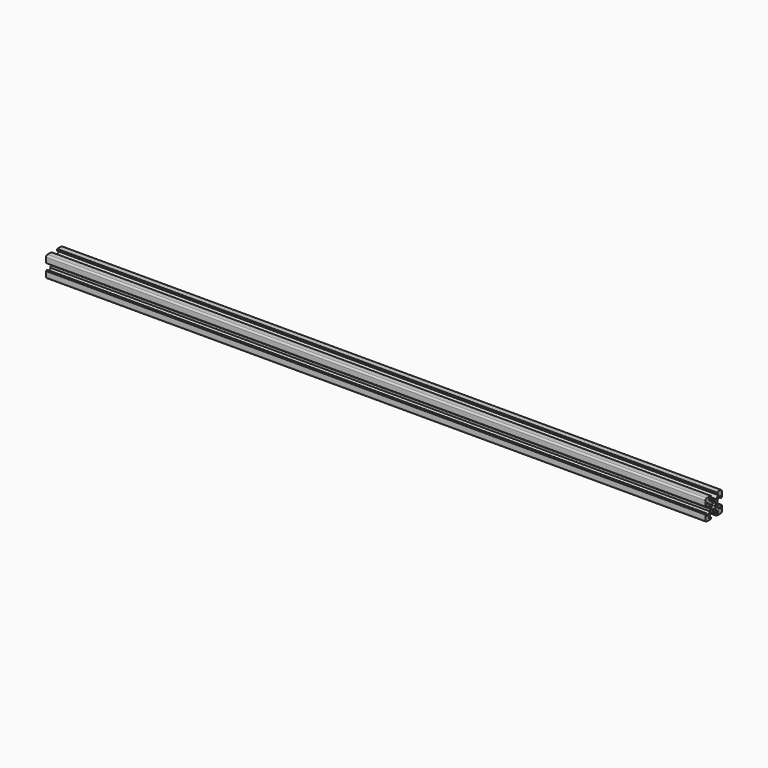
from build123d import *

# Parameters (mm, degrees)
PAD_DEPTH = 640


with BuildPart() as part:
    # Sketch → Pad (new body)
    with BuildSketch(Plane.YZ):
        with BuildLine():
            Line((0, 4.1), (0.65, 4.5))
            Line((0.65, 4.5), (3, 4.5))
            Line((3, 4.5), (5.5, 7))
            Line((5.5, 7), (5.5, 8.5))
            Line((5.5, 8.5), (3, 8.5))
            Line((3, 8.5), (3, 9.5))
            Line((3, 9.5), (3.5, 9.5))
            Line((3.5, 9.5), (3.5, 10))
            Line((3.5, 10), (8.5, 10))
            ThreePointArc((10, 8.5), (9.56066, 9.56066), (8.5, 10))
            Line((10, 8.5), (10, 3.5))
            Line((10, 3.5), (9.5, 3.5))
            Line((9.5, 3.5), (9.5, 3))
            Line((9.5, 3), (8.5, 3))
            Line((8.5, 3), (8.5, 5.5))
            Line((8.5, 5.5), (7, 5.5))
            Line((7, 5.5), (4.5, 3))
            Line((4.5, 3), (4.5, 0.65))
            Line((4.5, 0.65), (4.1, 0))
            Line((4.5, -0.65), (4.1, 0))
            Line((4.5, -3), (4.5, -0.65))
            Line((7, -5.5), (4.5, -3))
            Line((8.5, -5.5), (7, -5.5))
            Line((8.5, -3), (8.5, -5.5))
            Line((9.5, -3), (8.5, -3))
            Line((9.5, -3.5), (9.5, -3))
            Line((10, -3.5), (9.5, -3.5))
            Line((10, -8.5), (10, -3.5))
            ThreePointArc((8.5, -10), (9.56066, -9.56066), (10, -8.5))
            Line((3.5, -10), (8.5, -10))
            Line((3.5, -9.5), (3.5, -10))
            Line((3, -9.5), (3.5, -9.5))
            Line((3, -8.5), (3, -9.5))
            Line((5.5, -8.5), (3, -8.5))
            Line((5.5, -7), (5.5, -8.5))
            Line((3, -4.5), (5.5, -7))
            Line((0.65, -4.5), (3, -4.5))
            Line((0, -4.1), (0.65, -4.5))
            Line((0, -4.1), (-0.65, -4.5))
            Line((-0.65, -4.5), (-3, -4.5))
            Line((-3, -4.5), (-5.5, -7))
            Line((-5.5, -7), (-5.5, -8.5))
            Line((-5.5, -8.5), (-3, -8.5))
            Line((-3, -8.5), (-3, -9.5))
            Line((-3, -9.5), (-3.5, -9.5))
            Line((-3.5, -9.5), (-3.5, -10))
            Line((-3.5, -10), (-8.5, -10))
            ThreePointArc((-10, -8.5), (-9.56066, -9.56066), (-8.5, -10))
            Line((-10, -8.5), (-10, -3.5))
            Line((-10, -3.5), (-9.5, -3.5))
            Line((-9.5, -3.5), (-9.5, -3))
            Line((-9.5, -3), (-8.5, -3))
            Line((-8.5, -3), (-8.5, -5.5))
            Line((-8.5, -5.5), (-7, -5.5))
            Line((-7, -5.5), (-4.5, -3))
            Line((-4.5, -3), (-4.5, -0.65))
            Line((-4.5, -0.65), (-4.1, 0))
            Line((-4.5, 0.65), (-4.1, 0))
            Line((-4.5, 3), (-4.5, 0.65))
            Line((-7, 5.5), (-4.5, 3))
            Line((-8.5, 5.5), (-7, 5.5))
            Line((-8.5, 3), (-8.5, 5.5))
            Line((-9.5, 3), (-8.5, 3))
            Line((-9.5, 3.5), (-9.5, 3))
            Line((-10, 3.5), (-9.5, 3.5))
            Line((-10, 8.5), (-10, 3.5))
            ThreePointArc((-8.5, 10), (-9.56066, 9.56066), (-10, 8.5))
            Line((-3.5, 10), (-8.5, 10))
            Line((-3.5, 9.5), (-3.5, 10))
            Line((-3, 9.5), (-3.5, 9.5))
            Line((-3, 8.5), (-3, 9.5))
            Line((-5.5, 8.5), (-3, 8.5))
            Line((-5.5, 7), (-5.5, 8.5))
            Line((-3, 4.5), (-5.5, 7))
            Line((-0.65, 4.5), (-3, 4.5))
            Line((0, 4.1), (-0.65, 4.5))
        make_face()
        with BuildLine():
            Line((1.340499, 2.401159), (1.923239, 2.983899))
            Line((1.923239, 2.983899), (2.983899, 1.923239))
            Line((2.983899, 1.923239), (2.401159, 1.340499))
            ThreePointArc((2.75, 0), (2.661361, 0.692573), (2.401159, 1.340499))
            ThreePointArc((2.401164, -1.34049), (2.661362, -0.692568), (2.75, 0))
            Line((2.983904, -1.92323), (2.401164, -1.34049))
            Line((1.923247, -2.983894), (2.983904, -1.92323))
            Line((1.340507, -2.401154), (1.923247, -2.983894))
            ThreePointArc((0, -2.75), (0.692577, -2.66136), (1.340507, -2.401154))
            ThreePointArc((-1.340507, -2.401154), (-0.692577, -2.66136), (0, -2.75))
            Line((-1.340507, -2.401154), (-1.923247, -2.983894))
            Line((-1.923247, -2.983894), (-2.983904, -1.92323))
            Line((-2.983904, -1.92323), (-2.401164, -1.34049))
            ThreePointArc((-2.75, 0), (-2.661362, -0.692568), (-2.401164, -1.34049))
            ThreePointArc((-2.401159, 1.340499), (-2.661361, 0.692572), (-2.75, 0))
            Line((-2.983899, 1.923239), (-2.401159, 1.340499))
            Line((-1.923239, 2.983899), (-2.983899, 1.923239))
            Line((-1.340499, 2.401159), (-1.923239, 2.983899))
            ThreePointArc((0, 2.75), (-0.692573, 2.661361), (-1.340499, 2.401159))
            ThreePointArc((1.340499, 2.401159), (0.692573, 2.661361), (0, 2.75))
        make_face(mode=Mode.SUBTRACT)
    extrude(amount=PAD_DEPTH)


solid = part.part
